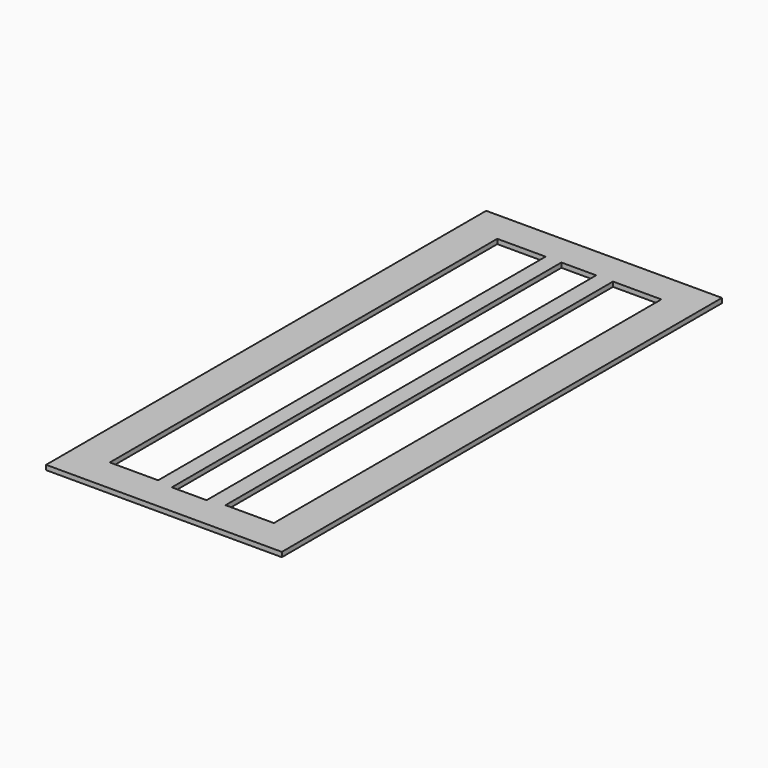
from build123d import *

# Parameters (mm, degrees)
F0_W     = 150
F0_H     = 350
F0_W_2   = 30.769266
F0_H_2   = 308.163822
F0_W_3   = 22.126071
F0_H_3   = 309.828047
F1_DEPTH = 3


with BuildPart() as f1:
    # F0 (on Top) → F1 (new body)
    with BuildSketch(Plane.XY):
        with Locations((-0.332844, -0.832112)):
            Rectangle(F0_W, F0_H)
        with Locations((-36.817174, 0)):
            Rectangle(F0_W_2, F0_H_2, mode=Mode.SUBTRACT)
        with Locations((-0.332844, -0.832113)):
            Rectangle(F0_W_3, F0_H_3, mode=Mode.SUBTRACT)
        with Locations((36.817174, 0)):
            Rectangle(F0_W_2, F0_H_2, mode=Mode.SUBTRACT)
    extrude(amount=F1_DEPTH)


solid = f1.part
